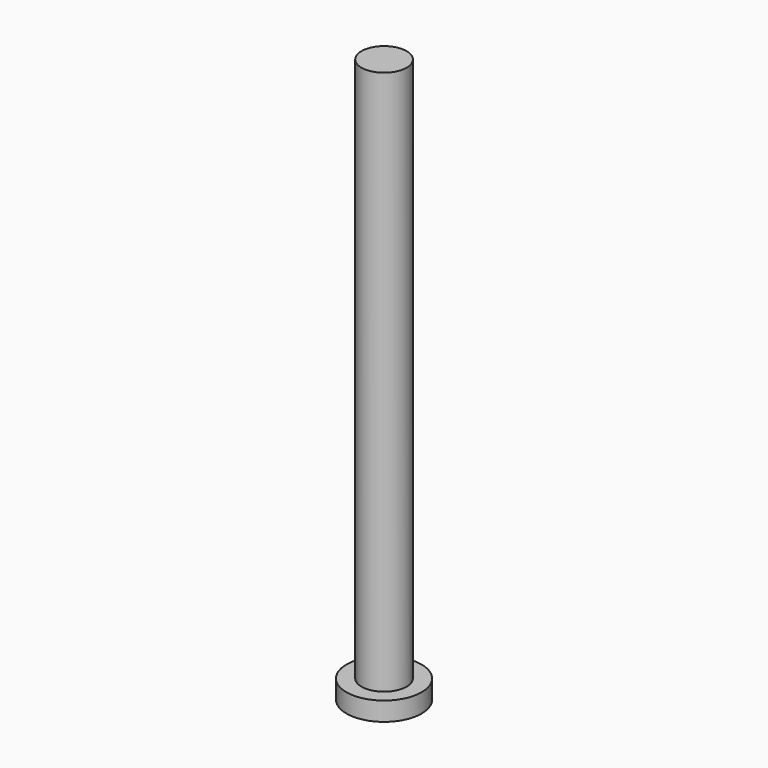
from build123d import *

# Parameters (mm, degrees)
F0_W = 1.2
F0_H = 29


with BuildPart() as f1:
    # F0 (on Front) → F1 (revolve)
    with BuildSketch(Plane.XZ):
        Polygon((1.2, -7.923903), (0, -7.923903), (0, -8.923903), (2, -8.923903), (2, -7.923903), align=None)
        with Locations((0.6, 6.576097)):
            Rectangle(F0_W, F0_H)
    revolve(axis=Axis((0, 0, 6.576097), (0, 0, -1)))


solid = f1.part
